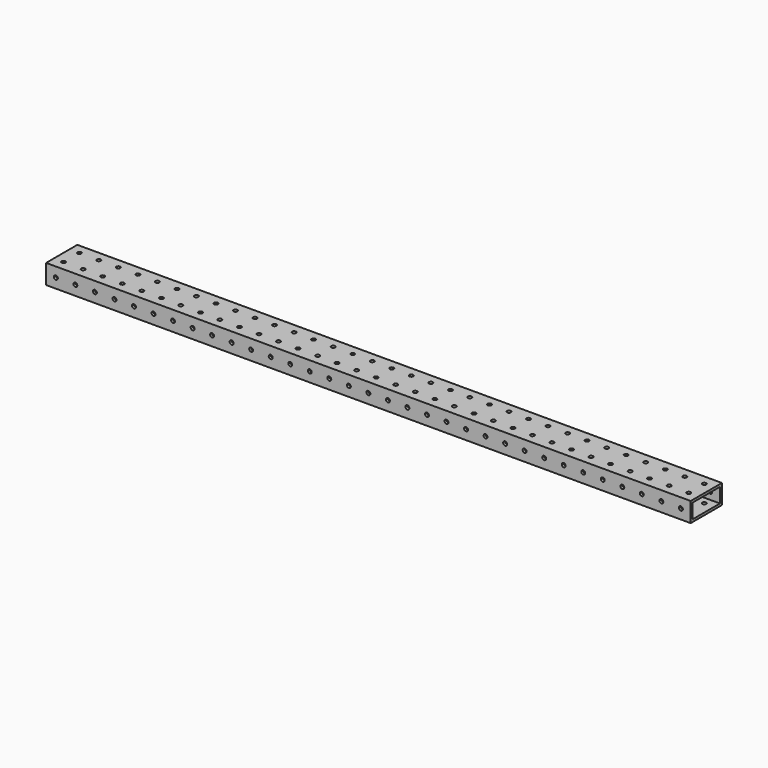
from build123d import *

# Parameters (mm, degrees)
F0_W     = 838.2
F0_H     = 50.8
F1_DEPTH = 25.4
F2_W     = 44.45
F2_H     = 19.05
F3_DEPTH = 838.2
F5_D     = 5.1054
F5_DEPTH = 50.8
F7_D     = 5.1054
F7_DEPTH = 50.8


with BuildPart() as f1:
    # F0 (on Top) → F1 (new body)
    with BuildSketch(Plane.XY):
        Rectangle(F0_W, F0_H)
    extrude(amount=F1_DEPTH)

    # F2 (on face) → F3 (cut)
    with BuildSketch(Plane.YZ.offset(419.1)):
        with Locations((0, 12.7)):
            Rectangle(F2_W, F2_H)
    extrude(amount=-F3_DEPTH, mode=Mode.SUBTRACT)

    # F5
    with Locations(Plane.XY.offset(25.4)):
        with Locations((330.2, -12.7), (127, -12.7), (-76.2, -12.7), (-101.6, 12.7), (101.6, 12.7), (304.8, 12.7), (-304.8, 12.7), (-330.2, -12.7), (-330.2, 12.7), (-355.6, -12.7), (-355.6, 12.7), (-381, -12.7), (-381, 12.7), (-406.4, -12.7), (-406.4, 12.7), (-279.4, -12.7), (-76.2, 12.7), (127, 12.7), (330.2, 12.7), (-279.4, 12.7), (-304.8, -12.7), (-127, -12.7), (76.2, -12.7), (279.4, -12.7), (-101.6, -12.7), (101.6, -12.7), (304.8, -12.7), (-127, 12.7), (76.2, 12.7), (279.4, 12.7), (-152.4, -12.7), (50.8, -12.7), (254, -12.7), (-152.4, 12.7), (50.8, 12.7), (254, 12.7), (-177.8, -12.7), (25.4, -12.7), (228.6, -12.7), (25.4, 12.7), (228.6, 12.7), (-177.8, 12.7), (0, -12.7), (203.2, -12.7), (406.4, -12.7), (-203.2, -12.7), (0, 12.7), (203.2, 12.7), (406.4, 12.7), (-203.2, 12.7), (-25.4, -12.7), (177.8, -12.7), (381, -12.7), (-228.6, -12.7), (-25.4, 12.7), (177.8, 12.7), (381, 12.7), (-228.6, 12.7), (-50.8, -12.7), (152.4, -12.7), (355.6, -12.7), (-254, -12.7), (-50.8, 12.7), (152.4, 12.7), (355.6, 12.7), (-254, 12.7)):
            Hole(F5_D / 2, depth=F5_DEPTH)

    # F7
    with Locations(Plane.XZ.offset(25.4)):
        with Locations((-101.6, 12.7), (-355.6, 12.7), (254, 12.7), (330.2, 12.7), (-406.4, 12.7), (-127, 12.7), (355.6, 12.7), (-50.8, 12.7), (-381, 12.7), (-330.2, 12.7), (0, 12.7), (406.4, 12.7), (50.8, 12.7), (101.6, 12.7), (228.6, 12.7), (-254, 12.7), (152.4, 12.7), (-203.2, 12.7), (-228.6, 12.7), (127, 12.7), (304.8, 12.7), (203.2, 12.7), (-279.4, 12.7), (279.4, 12.7), (-177.8, 12.7), (-76.2, 12.7), (177.8, 12.7), (25.4, 12.7), (-304.8, 12.7), (76.2, 12.7), (381, 12.7), (-25.4, 12.7), (-152.4, 12.7)):
            Hole(F7_D / 2, depth=F7_DEPTH)


solid = f1.part
